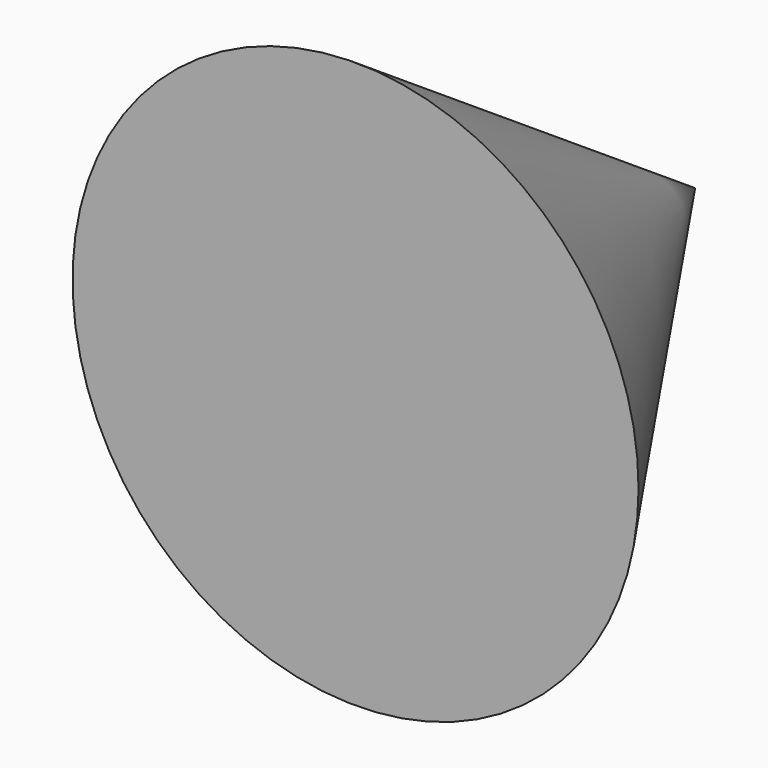
from build123d import *


with BuildPart() as f1:
    # F0 (on Top) → F1 (revolve)
    with BuildSketch(Plane.XY):
        Polygon((0, 3000), (0, 0), (2000, 0), align=None)
    revolve(axis=Axis((0, 1199.267149, 0), (0, -1, 0)))


solid = f1.part
